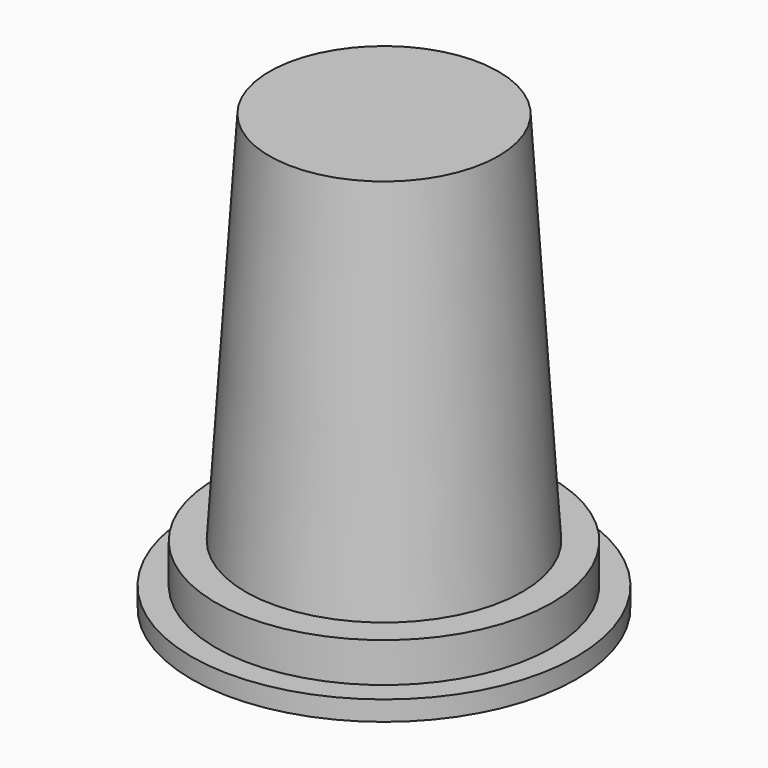
from build123d import *

# Parameters (mm, degrees)
F0_R     = 3.5
F2_R     = 2.895
F4_R     = 4.25
F5_DEPTH = 1
F6_R     = 4.865
F7_DEPTH = 0.5


with BuildPart() as f3:
    # F0 (on Top) → F3 section 0
    with BuildSketch(Plane.XY):
        Circle(F0_R)
    # F2 (on offset) → F3 section 1
    with BuildSketch(Plane.XY.offset(9.5)):
        Circle(F2_R)
    loft()

    # F4 (on face) → F5 (join)
    with BuildSketch(Plane(origin=(0, 0, 0), x_dir=(1, 0, 0), z_dir=(0, 0, -1))):
        Circle(F4_R)
    extrude(amount=F5_DEPTH)

    # F6 (on face) → F7 (join)
    with BuildSketch(Plane(origin=(0, 0, -1), x_dir=(1, 0, 0), z_dir=(0, 0, -1))):
        Circle(F6_R)
    extrude(amount=F7_DEPTH)


solid = f3.part
